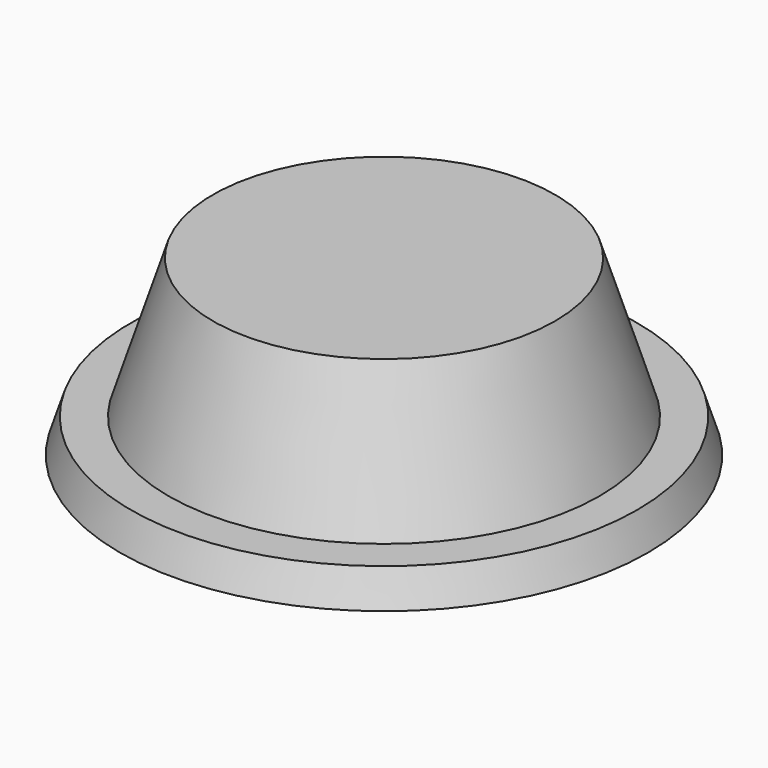
from build123d import *


with BuildPart() as f1:
    # F0 (on Front) → F1 (revolve)
    with BuildSketch(Plane.XZ):
        Polygon((-24.831081, 41.463964), (-24.831081, 31.058559), (-24.831081, 23.333335), (3.170049, 23.333335), (-2.601352, 41.463964), align=None)
        Polygon((3.170049, 23.333335), (-24.831081, 23.333335), (-24.831081, 18.91892), (9.476354, 18.91892), (8.057436, 23.333335), align=None)
    revolve(axis=Axis((-24.831081, 0, 15.52928), (0, 0, -1)))


solid = f1.part
